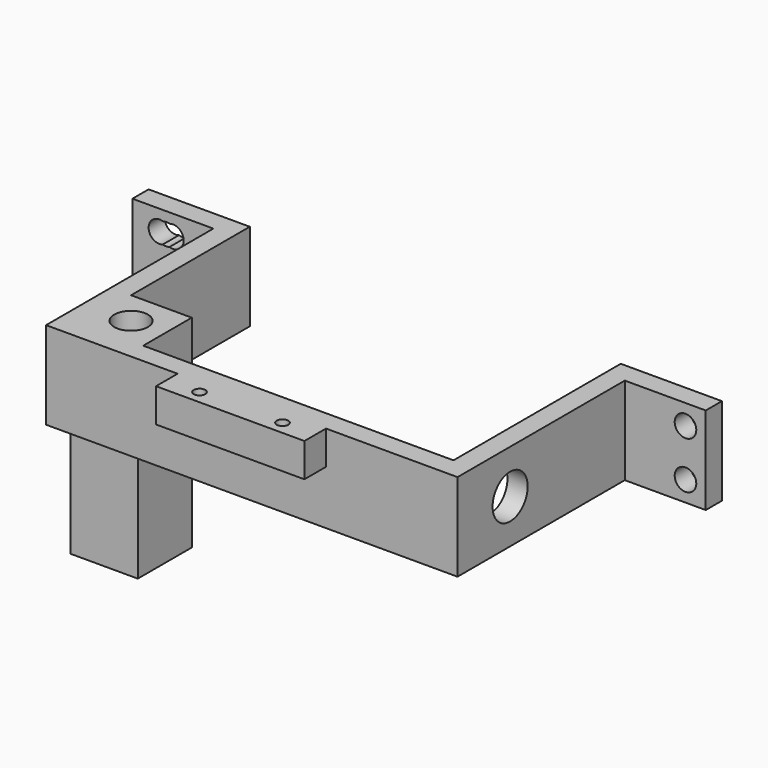
from build123d import *

# Parameters (mm, degrees)
CYLINDER076_R           = 2.5
CYLINDER076_DEPTH       = 27
CYLINDER075_R           = 2.75
CYLINDER075_DEPTH       = 10
BOX033_W                = 10
BOX033_H                = 10
BOX033_DEPTH            = 30
CYLINDER051_R           = 1.6
CYLINDER051_DEPTH       = 28
CYLINDER051_ROLL_ANGLE  = 90
CYLINDER050_R           = 1.6
CYLINDER050_DEPTH       = 28
CYLINDER050_ROLL_ANGLE  = 90
CYLINDER049_R           = 1.6
CYLINDER049_DEPTH       = 28
CYLINDER049_ROLL_ANGLE  = 90
CYLINDER048_R           = 1.6
CYLINDER048_DEPTH       = 28
CYLINDER048_ROLL_ANGLE  = 90
CYLINDER044_R           = 1.6
CYLINDER044_DEPTH       = 28
CYLINDER044_ROLL_ANGLE  = 90
CYLINDER043_R           = 1.6
CYLINDER043_DEPTH       = 28
CYLINDER043_ROLL_ANGLE  = 90
CYLINDER042_R           = 1.6
CYLINDER042_DEPTH       = 28
CYLINDER042_ROLL_ANGLE  = 90
CYLINDER041_R           = 1.6
CYLINDER041_DEPTH       = 28
CYLINDER041_ROLL_ANGLE  = 90
CYLINDER047_R           = 0.85
CYLINDER047_DEPTH       = 10
CYLINDER046_R           = 0.85
CYLINDER046_DEPTH       = 10
BOX025_W                = 22
BOX025_H                = 4
BOX025_DEPTH            = 5
CYLINDER045_R           = 3.25
CYLINDER045_DEPTH       = 10
CYLINDER045_PITCH_ANGLE = 90
BOX024_W                = 55
BOX024_H                = 31
BOX024_DEPTH            = 13
BOX021_W                = 61
BOX021_H                = 34
BOX021_DEPTH            = 13
BOX023_W                = 12
BOX023_H                = 3
BOX023_DEPTH            = 13
BOX022_W                = 12
BOX022_H                = 3
BOX022_DEPTH            = 13


with BuildPart() as cylinder128:
    # Cylinder076 → Cylinder076 (new body)
    with BuildSketch(Plane(origin=(-9, -20, 14), x_dir=(1, 0, 0), z_dir=(0, 0, 1))):
        Circle(CYLINDER076_R)
    extrude(amount=CYLINDER076_DEPTH)


with BuildPart() as obj1:
    # Cylinder075 → Cylinder075 (new body)
    with BuildSketch(Plane(origin=(-9, -20, 4), x_dir=(1, 0, 0), z_dir=(0, 0, 1))):
        Circle(CYLINDER075_R)
    extrude(amount=CYLINDER075_DEPTH)

    # Fusion103: union Cylinder128
    add(cylinder128.part)


with BuildPart() as cut045021:
    # Box033 → Box033 (new body)
    with BuildSketch(Plane(origin=(-14, -25, 9), x_dir=(1, 0, 0), z_dir=(0, 0, 1))):
        with Locations((5, 5)):
            Rectangle(BOX033_W, BOX033_H)
    extrude(amount=BOX033_DEPTH)

    # Cut045021: cut obj1
    add(obj1.part, mode=Mode.SUBTRACT)


with BuildPart() as cylinder103:
    # Cylinder051 → Cylinder051 (new body)
    with BuildSketch(Plane.XY):
        Circle(CYLINDER051_R)
    extrude(amount=CYLINDER051_DEPTH)


with BuildPart() as cylinder103_1:
    # Cylinder051 roll: moved
    add(cylinder103.part.rotate(Axis((0, 0, 0), (1, 0, 0)), CYLINDER051_ROLL_ANGLE))


with BuildPart() as cylinder103_2:
    # Cylinder051 placement: moved
    add(cylinder103_1.part.moved(Location((-23, 20, 36))))


with BuildPart() as fusion085:
    # Cylinder050 → Cylinder050 (new body)
    with BuildSketch(Plane.XY):
        Circle(CYLINDER050_R)
    extrude(amount=CYLINDER050_DEPTH)


with BuildPart() as fusion085_1:
    # Cylinder050 roll: moved
    add(fusion085.part.rotate(Axis((0, 0, 0), (1, 0, 0)), CYLINDER050_ROLL_ANGLE))


with BuildPart() as fusion085_2:
    # Cylinder050 placement: moved
    add(fusion085_1.part.moved(Location((-23, 20, 29))))

    # Fusion085: union Cylinder103
    add(cylinder103_2.part)


with BuildPart() as fusion085_3:
    # Fusion085 placement: moved
    add(fusion085_2.part.moved(Location((-1, 0, 0))))


with BuildPart() as cylinder101:
    # Cylinder049 → Cylinder049 (new body)
    with BuildSketch(Plane.XY):
        Circle(CYLINDER049_R)
    extrude(amount=CYLINDER049_DEPTH)


with BuildPart() as cylinder101_1:
    # Cylinder049 roll: moved
    add(cylinder101.part.rotate(Axis((0, 0, 0), (1, 0, 0)), CYLINDER049_ROLL_ANGLE))


with BuildPart() as cylinder101_2:
    # Cylinder049 placement: moved
    add(cylinder101_1.part.moved(Location((-23, 20, 36))))


with BuildPart() as fusion084:
    # Cylinder048 → Cylinder048 (new body)
    with BuildSketch(Plane.XY):
        Circle(CYLINDER048_R)
    extrude(amount=CYLINDER048_DEPTH)


with BuildPart() as fusion084_1:
    # Cylinder048 roll: moved
    add(fusion084.part.rotate(Axis((0, 0, 0), (1, 0, 0)), CYLINDER048_ROLL_ANGLE))


with BuildPart() as fusion084_2:
    # Cylinder048 placement: moved
    add(fusion084_1.part.moved(Location((-23, 20, 29))))

    # Fusion084: union Cylinder101
    add(cylinder101_2.part)


with BuildPart() as fusion084_3:
    # Fusion084 placement: moved
    add(fusion084_2.part.moved(Location((1, 0, 0))))


with BuildPart() as cylinder096:
    # Cylinder044 → Cylinder044 (new body)
    with BuildSketch(Plane.XY):
        Circle(CYLINDER044_R)
    extrude(amount=CYLINDER044_DEPTH)


with BuildPart() as cylinder096_1:
    # Cylinder044 roll: moved
    add(cylinder096.part.rotate(Axis((0, 0, 0), (1, 0, 0)), CYLINDER044_ROLL_ANGLE))


with BuildPart() as cylinder096_2:
    # Cylinder044 placement: moved
    add(cylinder096_1.part.moved(Location((-23, 20, 36))))


with BuildPart() as fusion080:
    # Cylinder043 → Cylinder043 (new body)
    with BuildSketch(Plane.XY):
        Circle(CYLINDER043_R)
    extrude(amount=CYLINDER043_DEPTH)


with BuildPart() as fusion080_1:
    # Cylinder043 roll: moved
    add(fusion080.part.rotate(Axis((0, 0, 0), (1, 0, 0)), CYLINDER043_ROLL_ANGLE))


with BuildPart() as fusion080_2:
    # Cylinder043 placement: moved
    add(fusion080_1.part.moved(Location((-23, 20, 29))))

    # Fusion080: union Cylinder096
    add(cylinder096_2.part)


with BuildPart() as cylinder094:
    # Cylinder042 → Cylinder042 (new body)
    with BuildSketch(Plane.XY):
        Circle(CYLINDER042_R)
    extrude(amount=CYLINDER042_DEPTH)


with BuildPart() as cylinder094_1:
    # Cylinder042 roll: moved
    add(cylinder094.part.rotate(Axis((0, 0, 0), (1, 0, 0)), CYLINDER042_ROLL_ANGLE))


with BuildPart() as cylinder094_2:
    # Cylinder042 placement: moved
    add(cylinder094_1.part.moved(Location((54, 20, 36))))


with BuildPart() as fusion081:
    # Cylinder041 → Cylinder041 (new body)
    with BuildSketch(Plane.XY):
        Circle(CYLINDER041_R)
    extrude(amount=CYLINDER041_DEPTH)


with BuildPart() as fusion081_1:
    # Cylinder041 roll: moved
    add(fusion081.part.rotate(Axis((0, 0, 0), (1, 0, 0)), CYLINDER041_ROLL_ANGLE))


with BuildPart() as fusion081_2:
    # Cylinder041 placement: moved
    add(fusion081_1.part.moved(Location((54, 20, 29))))

    # Fusion081: union Cylinder094
    add(cylinder094_2.part)


with BuildPart() as cylinder099:
    # Cylinder047 → Cylinder047 (new body)
    with BuildSketch(Plane(origin=(8.35, -29, 40), x_dir=(1, 0, 0), z_dir=(0, 0, -1))):
        Circle(CYLINDER047_R)
    extrude(amount=CYLINDER047_DEPTH)


with BuildPart() as fusion078:
    # Cylinder046 → Cylinder046 (new body)
    with BuildSketch(Plane(origin=(20.65, -29, 30), x_dir=(1, 0, 0), z_dir=(0, 0, 1))):
        Circle(CYLINDER046_R)
    extrude(amount=CYLINDER046_DEPTH)

    # Fusion078: union Cylinder099
    add(cylinder099.part)


with BuildPart() as cut039:
    # Box025 → Box025 (new body)
    with BuildSketch(Plane(origin=(3.5, -31, 34), x_dir=(1, 0, 0), z_dir=(0, 0, 1))):
        with Locations((11, 2)):
            Rectangle(BOX025_W, BOX025_H)
    extrude(amount=BOX025_DEPTH)

    # Cut039: cut Fusion078
    add(fusion078.part, mode=Mode.SUBTRACT)


with BuildPart() as cylinder097:
    # Cylinder045 → Cylinder045 (new body)
    with BuildSketch(Plane.XY):
        Circle(CYLINDER045_R)
    extrude(amount=CYLINDER045_DEPTH)


with BuildPart() as cylinder097_1:
    # Cylinder045 pitch: moved
    add(cylinder097.part.rotate(Axis((0, 0, 0), (0, 1, 0)), CYLINDER045_PITCH_ANGLE))


with BuildPart() as cylinder097_2:
    # Cylinder045 placement: moved
    add(cylinder097_1.part.moved(Location((36, -17.25, 32.5))))


with BuildPart() as cube023:
    # Box024 → Box024 (new body)
    with BuildSketch(Plane(origin=(-13, -24, 26), x_dir=(1, 0, 0), z_dir=(0, 0, 1))):
        with Locations((27.5, 15.5)):
            Rectangle(BOX024_W, BOX024_H)
    extrude(amount=BOX024_DEPTH)


with BuildPart() as fusion079:
    # Box021 → Box021 (new body)
    with BuildSketch(Plane(origin=(-16, -27, 26), x_dir=(1, 0, 0), z_dir=(0, 0, 1))):
        with Locations((30.5, 17)):
            Rectangle(BOX021_W, BOX021_H)
    extrude(amount=BOX021_DEPTH)

    # Cut037: cut Cube023
    add(cube023.part, mode=Mode.SUBTRACT)

    # Cut038: cut Cylinder097
    add(cylinder097_2.part, mode=Mode.SUBTRACT)

    # Fusion079: union Cut039
    add(cut039.part)


with BuildPart() as fusion082:
    # Box023 → Box023 (new body)
    with BuildSketch(Plane(origin=(-28, 4, 26), x_dir=(1, 0, 0), z_dir=(0, 0, 1))):
        with Locations((6, 1.5)):
            Rectangle(BOX023_W, BOX023_H)
    extrude(amount=BOX023_DEPTH)

    # Fusion082: union Fusion079
    add(fusion079.part)


with BuildPart() as obj2:
    # Box022 → Box022 (new body)
    with BuildSketch(Plane(origin=(45, 4, 26), x_dir=(1, 0, 0), z_dir=(0, 0, 1))):
        with Locations((6, 1.5)):
            Rectangle(BOX022_W, BOX022_H)
    extrude(amount=BOX022_DEPTH)

    # Fusion083: union Fusion082
    add(fusion082.part)

    # Cut040: cut Fusion081
    add(fusion081_2.part, mode=Mode.SUBTRACT)

    # Cut041: cut Fusion080
    add(fusion080_2.part, mode=Mode.SUBTRACT)

    # Cut042: cut Fusion084
    add(fusion084_3.part, mode=Mode.SUBTRACT)

    # Cut043: cut Fusion085
    add(fusion085_3.part, mode=Mode.SUBTRACT)

    # Fusion104: union Cut045021
    add(cut045021.part)


solid = obj2.part
